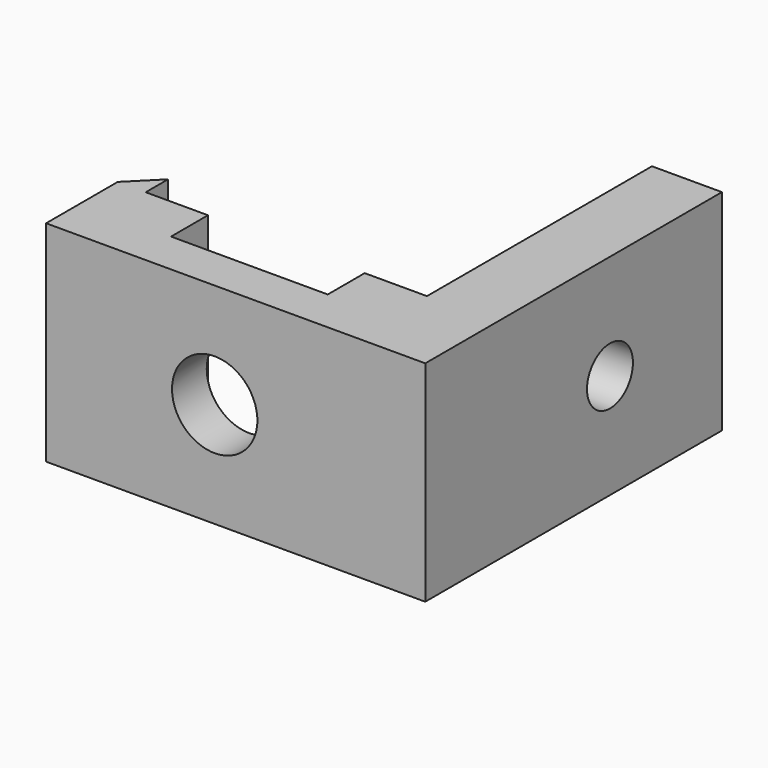
from build123d import *

# Parameters (mm, degrees)
F1_DEPTH = 15
F4_D     = 4.1
F4_DEPTH = 7
F5_D     = 6.1
F5_DEPTH = 7


with BuildPart() as f1:
    # F0 (on Top) → F1 (new body)
    with BuildSketch(Plane.XY):
        Polygon((-8.678603, -7.1), (-8.678603, -5.1), (-10.678603, -7.1), (-10.678603, -13.5), (16.421397, -13.5), (16.421397, 13), (11.421397, 13), (11.421397, -7.1), (6.971397, -7.1), (6.971397, -10.4), (-4.228603, -10.4), (-4.228603, -7.1), align=None)
    extrude(amount=F1_DEPTH)

    # F4
    with Locations(Plane.YZ.offset(16.421397)):
        with Locations((3, 7.5)):
            Hole(F4_D / 2, depth=F4_DEPTH)

    # F5
    with Locations(Plane.XZ.offset(13.5)):
        with Locations((1.371397, 7.5)):
            Hole(F5_D / 2, depth=F5_DEPTH)


solid = f1.part
